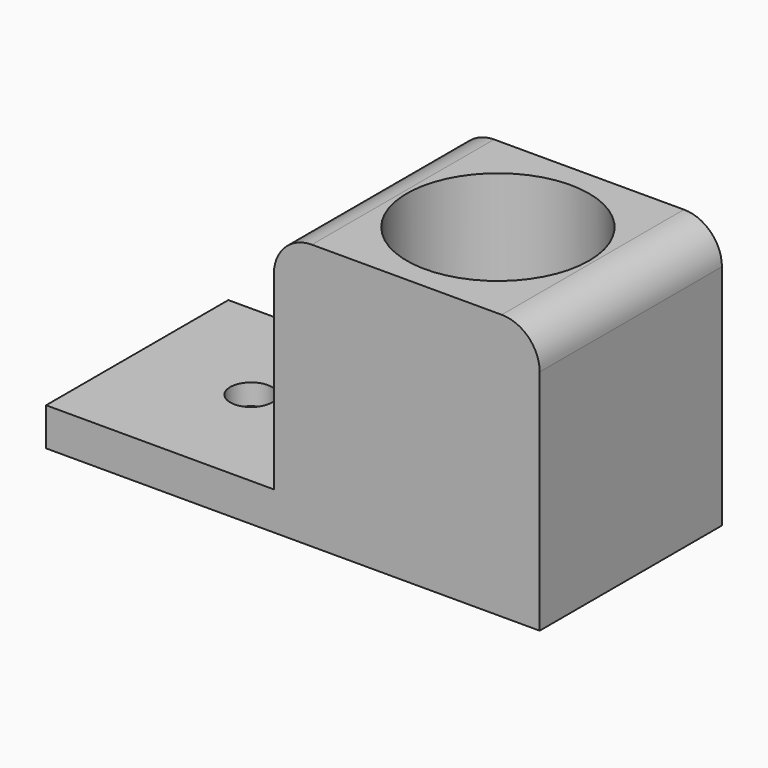
from build123d import *

# Parameters (mm, degrees)
F1_DEPTH       = 30
F3_R           = 12
F4_DEPTH       = 35
F5_R           = 5
F7_D           = 5.5
F7_DEPTH       = 16
F7_CSINK_D     = 10
F7_CSINK_ANGLE = 90


with BuildPart() as f1:
    # F0 (on Front) → F1 (new body)
    with BuildSketch(Plane.XZ):
        Polygon((-65, 0), (0, 0), (0, 35), (-35, 35), (-35, 5), (-65, 5), align=None)
    extrude(amount=F1_DEPTH)

    # F3 (on face) → F4 (cut, through all)
    with BuildSketch(Plane.XY.offset(35)):
        with Locations((-17.5, -15)):
            Circle(F3_R)
    extrude(amount=-F4_DEPTH, mode=Mode.SUBTRACT)

    # F5
    f5_edges = [f1.edges().sort_by_distance(p)[0] for p in [
        (0, -15, 35),
        (-35, -15, 35),
    ]]
    fillet(f5_edges, radius=F5_R)

    # F7
    with Locations(Plane(origin=(0, 0, 0), x_dir=(1, 0, 0), z_dir=(0, 0, -1))):
        with Locations((-50, 15)):
            CounterSinkHole(F7_D / 2, F7_CSINK_D / 2, depth=F7_DEPTH, counter_sink_angle=F7_CSINK_ANGLE)


solid = f1.part
